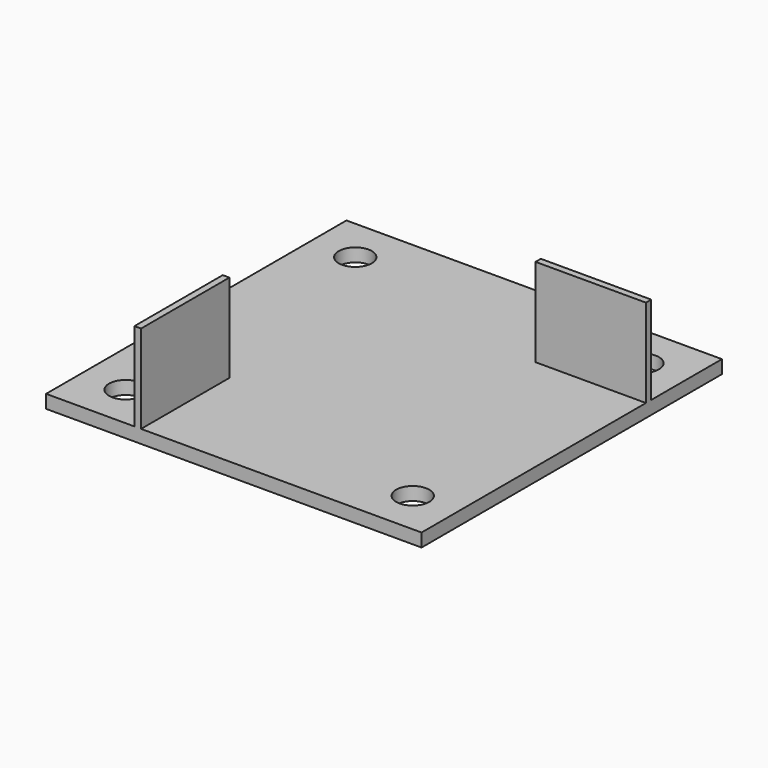
from build123d import *

# Parameters (mm, degrees)
F0_W     = 170
F0_H     = 170
F0_R     = 7.5
F1_DEPTH = 6
F2_W     = 3
F2_H     = 50
F2_W_2   = 50
F2_H_2   = 3
F3_DEPTH = 40


with BuildPart() as f1:
    # F0 (on Top) → F1 (new body)
    with BuildSketch(Plane.XY):
        Rectangle(F0_W, F0_H)
        with Locations((-65, -65)):
            Circle(F0_R, mode=Mode.SUBTRACT)
        with Locations((65, -65)):
            Circle(F0_R, mode=Mode.SUBTRACT)
        with Locations((-65, 65)):
            Circle(F0_R, mode=Mode.SUBTRACT)
        with Locations((65, 65)):
            Circle(F0_R, mode=Mode.SUBTRACT)
    extrude(amount=F1_DEPTH)

    # F2 (on face) → F3 (join)
    with BuildSketch(Plane.XY.offset(6)):
        with Locations((-43.5, -60)):
            Rectangle(F2_W, F2_H)
        with Locations((60, 43.5)):
            Rectangle(F2_W_2, F2_H_2)
    extrude(amount=F3_DEPTH)


solid = f1.part
